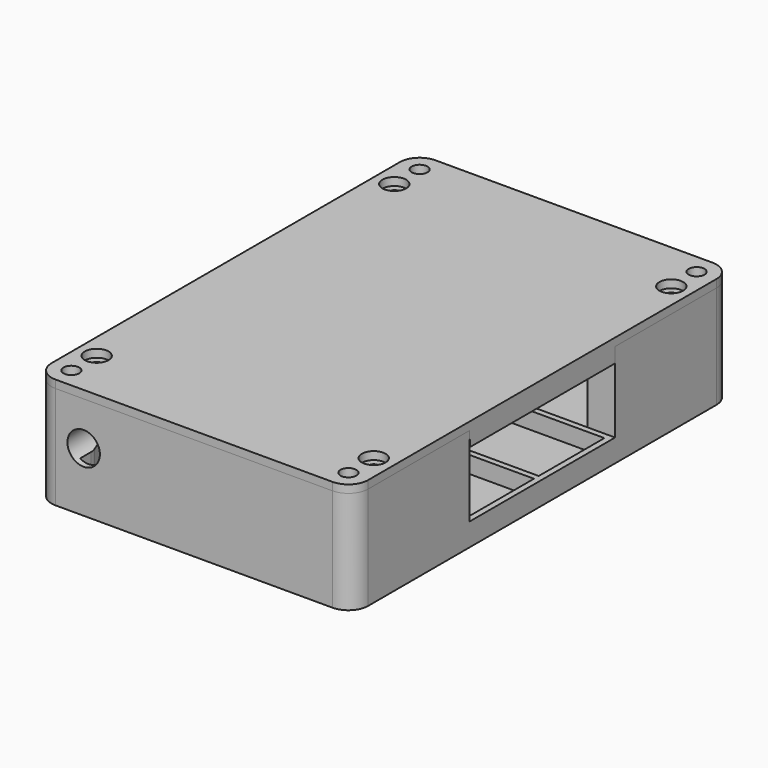
from build123d import *

# Parameters (mm, degrees)
PAD002_DEPTH    = 8
SKETCH006_R     = 1.6
POCKET003_DEPTH = 6.001
SKETCH007_R     = 2
SKETCH007_R_2   = 1.6
PAD003_DEPTH    = 5.5
SKETCH008_R     = 3
POCKET004_DEPTH = 3
POCKET005_DEPTH = 4
SKETCH012_W     = 82
SKETCH012_H     = 122
POCKET006_DEPTH = 1.5
SKETCH013_W     = 25
SKETCH013_H     = 10.6
SKETCH013_W_2   = 55.65
SKETCH013_H_2   = 20.65
PAD006_DEPTH    = 4.25
PAD_DEPTH       = 26
SKETCH001_R     = 2
POCKET_DEPTH    = 26.001
SKETCH002_R     = 1.25
POCKET001_DEPTH = 24.5
PAD004_DEPTH    = 22.75
SKETCH010_W     = 55.65
SKETCH010_H     = 20.75
SKETCH010_W_2   = 25
SKETCH010_H_2   = 10.5
PAD005_DEPTH    = 4.25
SKETCH014_W     = 18.3
SKETCH014_H     = 8
PAD007_DEPTH    = 8.5
SKETCH015_R     = 4.1
POCKET007_DEPTH = 80
SKETCH016_R     = 1.25
POCKET008_DEPTH = 8.5
SKETCH017_R     = 4.1
POCKET009_DEPTH = 120.001
CHAMFER_SIZE    = 2


with BuildPart() as f_2_screwholes_pocket:
    # Sketch005 → Pad002 (new body)
    with BuildSketch(Plane.XZ.offset(-39)):
        with BuildLine():
            ThreePointArc((-25.373821, 12), (-29.35, 15.1), (-33.326179, 12))
            Line((-33.326179, 12), (-38.35, 12))
            Line((-38.35, 12), (-38.35, 18))
            Line((-38.35, 18), (-20.35, 18))
            Line((-20.35, 18), (-20.35, 12))
            Line((-25.373821, 12), (-20.35, 12))
        make_face()
    extrude(amount=PAD002_DEPTH)

    # Sketch006 → Pocket003 (cut, through all)
    with BuildSketch(Plane(origin=(0, 39, 18), x_dir=(-1, 0, 0), z_dir=(0, 0, 1))):
        with Locations((23.35, 4)):
            Circle(SKETCH006_R)
        with Locations((35.35, 4)):
            Circle(SKETCH006_R)
    extrude(amount=-POCKET003_DEPTH, mode=Mode.SUBTRACT)


with BuildPart() as f_5_lidcircuitbreakersupport_pad:
    # Sketch007 → Pad003 (new body)
    with BuildSketch(Plane.XY.offset(22.5)):
        with BuildLine():
            Line((-35, 60), (35, 60))
            ThreePointArc((40, 55), (38.535534, 58.535534), (35, 60))
            Line((40, 55), (40, -55))
            ThreePointArc((35, -60), (38.535534, -58.535534), (40, -55))
            Line((35, -60), (-35, -60))
            ThreePointArc((-40, -55), (-38.535534, -58.535534), (-35, -60))
            Line((-40, -55), (-40, 55))
            ThreePointArc((-35, 60), (-38.535534, 58.535534), (-40, 55))
        make_face()
        with Locations((-35, 55)):
            Circle(SKETCH007_R, mode=Mode.SUBTRACT)
        with Locations((-35, -55)):
            Circle(SKETCH007_R, mode=Mode.SUBTRACT)
        with Locations((35, 55)):
            Circle(SKETCH007_R, mode=Mode.SUBTRACT)
        with Locations((35, -55)):
            Circle(SKETCH007_R, mode=Mode.SUBTRACT)
        with Locations((-35, 47)):
            Circle(SKETCH007_R_2, mode=Mode.SUBTRACT)
        with Locations((35, 47)):
            Circle(SKETCH007_R_2, mode=Mode.SUBTRACT)
        with Locations((-35, -47)):
            Circle(SKETCH007_R_2, mode=Mode.SUBTRACT)
        with Locations((35, -47)):
            Circle(SKETCH007_R_2, mode=Mode.SUBTRACT)
    extrude(amount=PAD003_DEPTH)

    # Sketch008 → Pocket004 (cut)
    with BuildSketch(Plane.XY.offset(28)):
        with Locations((-35, 47)):
            Circle(SKETCH008_R)
        with Locations((-35, -47)):
            Circle(SKETCH008_R)
        with Locations((35, 47)):
            Circle(SKETCH008_R)
        with Locations((35, -47)):
            Circle(SKETCH008_R)
    extrude(amount=-POCKET004_DEPTH, mode=Mode.SUBTRACT)

    # Sketch011 → Pocket005 (cut)
    with BuildSketch(Plane(origin=(0, 0, 22.5), x_dir=(1, 0, 0), z_dir=(0, 0, -1))):
        with BuildLine():
            ThreePointArc((-35, 42.4), (-32.183096, 43.363373), (-30.546075, 45.849977))
            Line((-28.609575, 53.350009), (-30.546075, 45.849977))
            ThreePointArc((-28.609575, 53.350009), (-28.452603, 54.168376), (-28.4, 55))
            Line((-28.4, 55), (-28.4, 56.9))
            Line((-28.4, 56.9), (28.4, 56.9))
            Line((28.4, 56.9), (28.4, 54.999999))
            ThreePointArc((28.4, 54.999999), (28.452603, 54.168376), (28.609575, 53.350009))
            Line((28.609575, 53.350009), (30.546075, 45.849977))
            ThreePointArc((30.546075, 45.849977), (32.183096, 43.363373), (35, 42.4))
            Line((35, 42.4), (36.9, 42.4))
            Line((36.9, 42.4), (36.9, -42.4))
            Line((36.9, -42.4), (35.000001, -42.4))
            ThreePointArc((35.000001, -42.4), (32.183097, -43.363373), (30.546075, -45.849977))
            Line((30.546075, -45.849977), (28.609575, -53.350009))
            ThreePointArc((28.609575, -53.350009), (28.452603, -54.168376), (28.4, -54.999999))
            Line((28.4, -56.9), (28.4, -54.999999))
            Line((-28.4, -56.9), (28.4, -56.9))
            Line((-28.4, -55), (-28.4, -56.9))
            ThreePointArc((-28.4, -55), (-28.452603, -54.168376), (-28.609575, -53.350009))
            Line((-30.546075, -45.849977), (-28.609575, -53.350009))
            ThreePointArc((-30.546075, -45.849977), (-32.183098, -43.363372), (-35.000005, -42.4))
            Line((-36.9, -42.4), (-35.000005, -42.4))
            Line((-36.9, 42.4), (-36.9, -42.4))
            Line((-35, 42.4), (-36.9, 42.4))
        make_face()
    extrude(amount=-POCKET005_DEPTH, mode=Mode.SUBTRACT)

    # Sketch012 → Pocket006 (cut)
    with BuildSketch(Plane(origin=(0, 0, 22.5), x_dir=(1, 0, 0), z_dir=(0, 0, -1))):
        Rectangle(SKETCH012_W, SKETCH012_H)
        with BuildLine():
            ThreePointArc((-35, 43.9), (-33.101645, 44.549235), (-31.998438, 46.225))
            Line((-30.061946, 53.725), (-31.998438, 46.225))
            ThreePointArc((-30.061946, 53.725), (-29.940649, 54.357378), (-29.9, 55))
            Line((-29.9, 55), (-29.9, 58.4))
            Line((-29.9, 58.4), (29.9, 58.4))
            Line((29.9, 58.4), (29.9, 55))
            ThreePointArc((29.9, 55), (29.940648, 54.357379), (30.061946, 53.725001))
            Line((30.061946, 53.725001), (31.998438, 46.225001))
            ThreePointArc((31.998438, 46.225001), (33.101645, 44.549235), (35, 43.9))
            Line((35, 43.9), (38.4, 43.9))
            Line((38.4, 43.9), (38.4, 24.6))
            Line((38.4, 24.6), (35.8, 24.6))
            Line((35.8, 24.6), (35.8, -24.6))
            Line((35.8, -24.6), (38.4, -24.6))
            Line((38.4, -24.6), (38.4, -43.9))
            Line((38.4, -43.9), (35, -43.9))
            ThreePointArc((35, -43.9), (33.101645, -44.549235), (31.998438, -46.225))
            Line((31.998438, -46.225), (30.061947, -53.724999))
            ThreePointArc((30.061947, -53.724999), (29.940649, -54.357378), (29.9, -55))
            Line((29.9, -58.4), (29.9, -55))
            Line((-29.9, -58.4), (29.9, -58.4))
            Line((-29.9, -55), (-29.9, -58.4))
            ThreePointArc((-29.9, -55), (-29.940648, -54.357379), (-30.061946, -53.725001))
            Line((-31.998438, -46.225), (-30.061946, -53.725001))
            ThreePointArc((-31.998438, -46.225), (-33.101645, -44.549235), (-35, -43.9))
            Line((-38.4, -43.9), (-35, -43.9))
            Line((-38.4, 43.9), (-38.4, -43.9))
            Line((-35, 43.9), (-38.4, 43.9))
        make_face(mode=Mode.SUBTRACT)
    extrude(amount=-POCKET006_DEPTH, mode=Mode.SUBTRACT)

    # Sketch013 → Pad006 (new body)
    with BuildSketch(Plane(origin=(0, 0, 26.5), x_dir=(1, 0, 0), z_dir=(0, 0, -1))):
        Polygon((-18.65, 35), (-18.65, -35), (9.35, -35), (9.35, -22.9), (40, -22.9), (40, 22.9), (9.35, 22.9), (9.35, 35), align=None)
        with Locations((-4.65, 28.2)):
            Rectangle(SKETCH013_W, SKETCH013_H, mode=Mode.SUBTRACT)
        with Locations((10.675, 11.075)):
            Rectangle(SKETCH013_W_2, SKETCH013_H_2, mode=Mode.SUBTRACT)
        with Locations((10.675, -11.075)):
            Rectangle(SKETCH013_W_2, SKETCH013_H_2, mode=Mode.SUBTRACT)
        with Locations((-4.65, -28.2)):
            Rectangle(SKETCH013_W, SKETCH013_H, mode=Mode.SUBTRACT)
    extrude(amount=PAD006_DEPTH)


with BuildPart() as f_10_mountingscrewhead_chamfer:
    # Sketch → Pad (new body)
    with BuildSketch(Plane.XY):
        with BuildLine():
            Line((-35, 60), (35, 60))
            ThreePointArc((40, 55), (38.535534, 58.535534), (35, 60))
            Line((40, 55), (40, -55))
            ThreePointArc((35, -60), (38.535534, -58.535534), (40, -55))
            Line((35, -60), (-35, -60))
            ThreePointArc((-40, -55), (-38.535534, -58.535534), (-35, -60))
            Line((-40, -55), (-40, 55))
            ThreePointArc((-35, 60), (-38.535534, 58.535534), (-40, 55))
        make_face()
    extrude(amount=PAD_DEPTH)

    # Sketch001 → Pocket (cut, through all)
    with BuildSketch(Plane.XY.offset(26)):
        with Locations((-35, 55)):
            Circle(SKETCH001_R)
        with Locations((35, 55)):
            Circle(SKETCH001_R)
        with Locations((-35, -55)):
            Circle(SKETCH001_R)
        with Locations((35, -55)):
            Circle(SKETCH001_R)
    extrude(amount=-POCKET_DEPTH, mode=Mode.SUBTRACT)

    # Sketch002 → Pocket001 (cut)
    with BuildSketch(Plane.XY.offset(26)):
        with Locations((-35, 47)):
            Circle(SKETCH002_R)
        with Locations((34.999997, 47)):
            Circle(SKETCH002_R)
        with Locations((-35.000001, -47)):
            Circle(SKETCH002_R)
        with Locations((35, -47)):
            Circle(SKETCH002_R)
        with BuildLine():
            ThreePointArc((-30.158766, 53.75002), (-30.039849, 54.369998), (-30, 55.000018))
            Line((-30, 55.000018), (-30, 58.5))
            Line((-30, 58.5), (30, 58.5))
            Line((30, 58.5), (30, 55.000024))
            ThreePointArc((30, 55.000024), (30.039848, 54.370006), (30.158763, 53.750029))
            Line((32.095258, 46.250002), (30.158763, 53.750029))
            ThreePointArc((32.095258, 46.250002), (33.16288, 44.628291), (35, 44))
            Line((38.5, 44), (35, 44))
            Line((38.5, 44), (38.5, 24.5))
            Line((38.5, 24.5), (33, 24.5))
            Line((33, 24.5), (33, 23))
            Line((33, 23), (41, 23))
            Line((41, 23), (41, -23))
            Line((41, -23), (33, -23))
            Line((33, -23), (33, -24.5))
            Line((33, -24.5), (38.5, -24.5))
            Line((38.5, -24.5), (38.5, -44))
            Line((38.5, -44), (35, -44))
            ThreePointArc((35, -44), (33.162882, -44.628292), (32.095262, -46.250001))
            Line((30.158764, -53.750027), (32.095262, -46.250001))
            ThreePointArc((30.158764, -53.750027), (30.039848, -54.370004), (30, -55.000024))
            Line((30, -58.5), (30, -55.000024))
            Line((-30, -58.5), (30, -58.5))
            Line((-30, -55.000024), (-30, -58.5))
            ThreePointArc((-30, -55.000024), (-30.039848, -54.370004), (-30.158764, -53.750026))
            Line((-30.158764, -53.750026), (-32.095263, -46.250001))
            ThreePointArc((-32.095263, -46.250001), (-33.162883, -44.628292), (-35, -44))
            Line((-38.5, -44), (-35, -44))
            Line((-38.5, 44), (-38.5, -44))
            Line((-38.5, 44), (-35, 44))
            ThreePointArc((-35, 44), (-33.16288, 44.628294), (-32.095261, 46.250006))
            Line((-32.095261, 46.250006), (-30.158766, 53.75002))
        make_face()
    extrude(amount=-POCKET001_DEPTH, mode=Mode.SUBTRACT)

    # Sketch009 → Pad004 (new body)
    with BuildSketch(Plane.XY.offset(1.5)):
        Polygon((-20.2, 44.5), (-20.2, -44.5), (-18.65, -44.5), (-18.65, -14.5), (-14.65, -14.5), (-14.65, -17.5), (-13.65, -17.5), (-13.65, 17.5), (-14.65, 17.5), (-14.65, 14.5), (-18.65, 14.5), (-18.65, 44.5), align=None)
    extrude(amount=PAD004_DEPTH)

    # Sketch010 → Pad005 (new body)
    with BuildSketch(Plane.XY.offset(1.5)):
        Polygon((40, 23), (40, -23), (9.35, -23), (9.35, -35), (-18.65, -35), (-18.65, 35), (9.35, 35), (9.35, 23), align=None)
        with Locations((10.675, 11.125)):
            Rectangle(SKETCH010_W, SKETCH010_H, mode=Mode.SUBTRACT)
        with Locations((10.675, -11.125)):
            Rectangle(SKETCH010_W, SKETCH010_H, mode=Mode.SUBTRACT)
        with Locations((-4.65, 28.25)):
            Rectangle(SKETCH010_W_2, SKETCH010_H_2, mode=Mode.SUBTRACT)
        with Locations((-4.65, -28.25)):
            Rectangle(SKETCH010_W_2, SKETCH010_H_2, mode=Mode.SUBTRACT)
    extrude(amount=PAD005_DEPTH)

    # Sketch014 → Pad007 (new body)
    with BuildSketch(Plane.XY.offset(1.5)):
        with Locations((-29.35, 35)):
            Rectangle(SKETCH014_W, SKETCH014_H)
        with Locations((-29.35, -35)):
            Rectangle(SKETCH014_W, SKETCH014_H)
    extrude(amount=PAD007_DEPTH)

    # Sketch015 → Pocket007 (cut)
    with BuildSketch(Plane.XZ.offset(39)):
        with Locations((-29.35, 11)):
            Circle(SKETCH015_R)
    extrude(amount=-POCKET007_DEPTH, mode=Mode.SUBTRACT)

    # Sketch016 → Pocket008 (cut)
    with BuildSketch(Plane.XY.offset(10)):
        with Locations((-35.35, 35)):
            Circle(SKETCH016_R)
        with Locations((-35.35, -35)):
            Circle(SKETCH016_R)
        with Locations((-23.35, -35)):
            Circle(SKETCH016_R)
        with Locations((-23.35, 35)):
            Circle(SKETCH016_R)
    extrude(amount=-POCKET008_DEPTH, mode=Mode.SUBTRACT)

    # Sketch017 → Pocket009 (cut, through all)
    with BuildSketch(Plane.XZ.offset(60)):
        with Locations((-27.9, 15)):
            Circle(SKETCH017_R)
    extrude(amount=-POCKET009_DEPTH, mode=Mode.SUBTRACT)

    # Chamfer
    chamfer_edges = [f_10_mountingscrewhead_chamfer.edges().sort_by_distance(p)[0] for p in [
        (33, 55, 0),
        (-37, 55, 0),
        (-37, -55, 0),
        (33, -55, 0),
    ]]
    chamfer(chamfer_edges, length=CHAMFER_SIZE)


with BuildPart() as f_3_secondclamp_clone:
    # Clone base: copy of 2_ScrewHoles_Pocket
    add(f_2_screwholes_pocket.part)


with BuildPart() as f_3_secondclamp_clone_1:
    # Clone placement: moved
    add(f_3_secondclamp_clone.part.moved(Location((0, -70, 0))))


solid = Compound([f_2_screwholes_pocket.part, f_5_lidcircuitbreakersupport_pad.part, f_10_mountingscrewhead_chamfer.part, f_3_secondclamp_clone_1.part])
